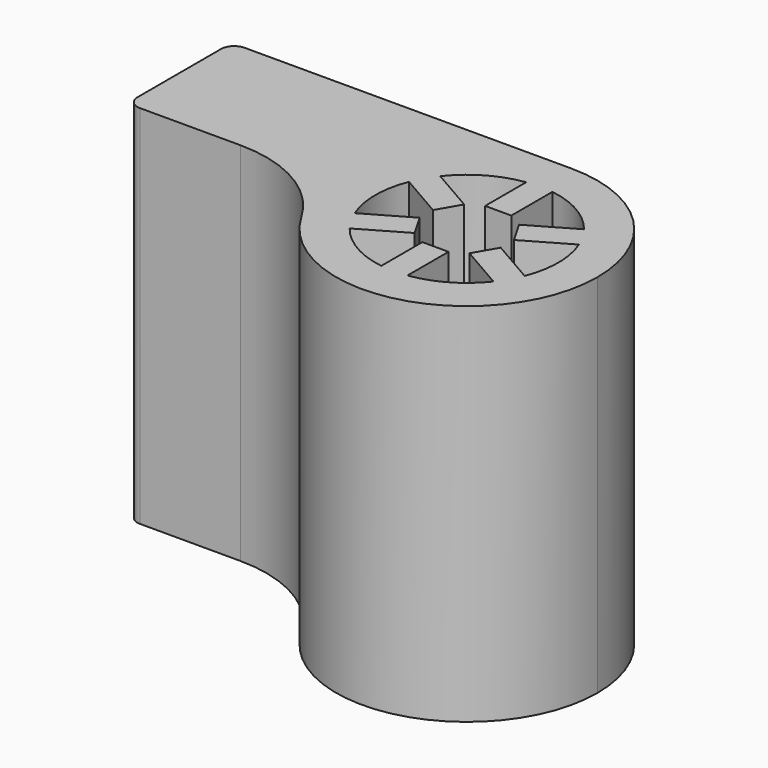
from build123d import *

# Parameters (mm, degrees)
F1_DEPTH = 7
F2_R     = 5
F3_R     = 0.5
F4_R     = 1.5
F5_DEPTH = 8


with BuildPart() as f1:
    # F0 (on Top) → F1 (new body, symmetric)
    with BuildSketch(Plane.XY):
        with BuildLine():
            ThreePointArc((-5, 0), (0, -5), (5, 0))
            ThreePointArc((5, 0), (3.535534, 3.535534), (0, 5))
            ThreePointArc((0, 5), (-3.535534, 3.535534), (-5, 0))
        make_face()
        with BuildLine():
            ThreePointArc((-2.75, 2.165064), (-1.75, 3.031089), (-0.5, 3.464102))
            ThreePointArc((-0.5, 3.464102), (0, 3.5), (0.5, 3.464102))
            ThreePointArc((0.5, 3.464102), (1.75, 3.031089), (2.75, 2.165064))
            Line((2.75, 2.165064), (1.049038, 1.183013))
            Line((1.049038, 1.183013), (1.549038, 0.316987))
            Line((1.549038, 0.316987), (3.25, 1.299038))
            ThreePointArc((3.25, 1.299038), (3.5, 0), (3.25, -1.299038))
            ThreePointArc((3.25, -1.299038), (3.031089, -1.75), (2.75, -2.165064))
            ThreePointArc((2.75, -2.165064), (1.75, -3.031089), (0.5, -3.464102))
            ThreePointArc((0.5, -3.464102), (0, -3.5), (-0.5, -3.464102))
            ThreePointArc((-0.5, -3.464102), (-1.75, -3.031089), (-2.75, -2.165064))
            ThreePointArc((-2.75, -2.165064), (-3.031089, -1.75), (-3.25, -1.299038))
            ThreePointArc((-3.25, -1.299038), (-3.5, 0), (-3.25, 1.299038))
            ThreePointArc((-3.25, 1.299038), (-3.031089, 1.75), (-2.75, 2.165064))
        make_face(mode=Mode.SUBTRACT)
        with BuildLine():
            Line((-1.049038, 1.183013), (-2.75, 2.165064))
            ThreePointArc((-2.75, 2.165064), (-3.031089, 1.75), (-3.25, 1.299038))
            Line((-3.25, 1.299038), (-1.549038, 0.316987))
            Line((-1.549038, 0.316987), (-1.049038, 1.183013))
        make_face()
        with BuildLine():
            ThreePointArc((0.5, 3.464102), (0, 3.5), (-0.5, 3.464102))
            Line((-0.5, 3.464102), (-0.5, 1.5))
            Line((-0.5, 1.5), (0.5, 1.5))
            Line((0.5, 1.5), (0.5, 3.464102))
        make_face()
        with BuildLine():
            Line((-1.549038, -0.316987), (-3.25, -1.299038))
            ThreePointArc((-3.25, -1.299038), (-3.031089, -1.75), (-2.75, -2.165064))
            Line((-2.75, -2.165064), (-1.049038, -1.183013))
            Line((-1.049038, -1.183013), (-1.549038, -0.316987))
        make_face()
        with BuildLine():
            Line((-0.5, -1.5), (-0.5, -3.464102))
            ThreePointArc((-0.5, -3.464102), (0, -3.5), (0.5, -3.464102))
            Line((0.5, -3.464102), (0.5, -1.5))
            Line((0.5, -1.5), (-0.5, -1.5))
        make_face()
        with BuildLine():
            ThreePointArc((2.75, -2.165064), (3.031089, -1.75), (3.25, -1.299038))
            Line((3.25, -1.299038), (1.549038, -0.316987))
            Line((1.549038, -0.316987), (1.049038, -1.183013))
            Line((1.049038, -1.183013), (2.75, -2.165064))
        make_face()
        with BuildLine():
            ThreePointArc((-5, 0), (-3.535534, 3.535534), (0, 5))
            Line((0, 5), (-13, 5))
            Line((-13, 5), (-13, 0))
            Line((-13, 0), (-5, 0))
        make_face()
    extrude(amount=F1_DEPTH, both=True)

    # F2
    f2_edges = [f1.edges().sort_by_distance(p)[0] for p in [
        (-5, 0, 0),
    ]]
    fillet(f2_edges, radius=F2_R)

    # F3
    f3_edges = [f1.edges().sort_by_distance(p)[0] for p in [
        (-13, 5, 0),
        (-13, 0, 0),
    ]]
    fillet(f3_edges, radius=F3_R)

    # F4 (on face) → F5 (cut)
    with BuildSketch(Plane(origin=(-13, 0, 0), x_dir=(0, -1, 0), z_dir=(-1, 0, 0))):
        with Locations((-2.5, 4)):
            Circle(F4_R)
        with Locations((-2.5, -4)):
            Circle(F4_R)
    extrude(amount=-F5_DEPTH, mode=Mode.SUBTRACT)


solid = f1.part
